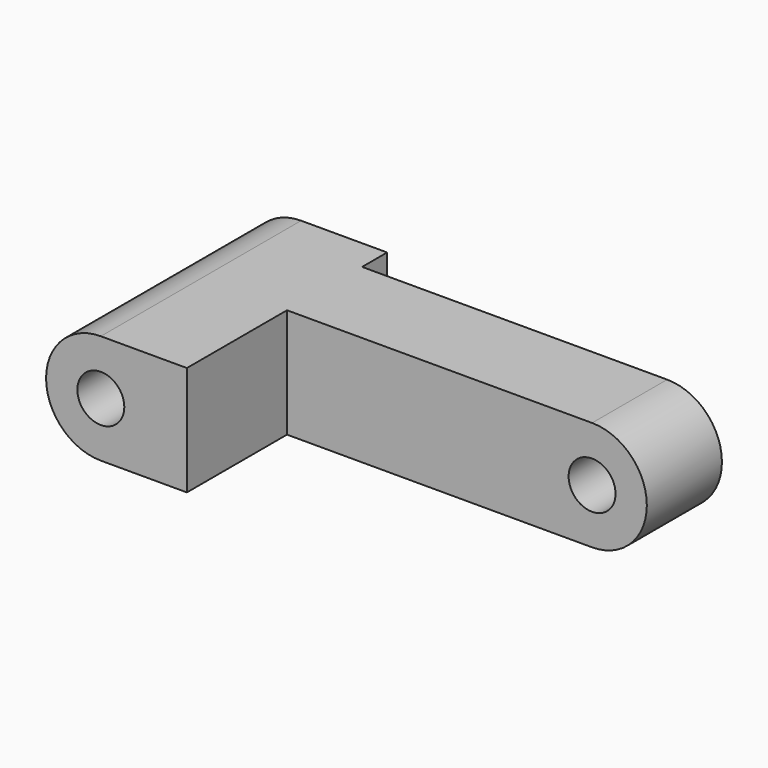
from build123d import *

# Parameters (mm, degrees)
F0_R     = 1.5
F1_DEPTH = 8
F2_W     = 19.5
F2_H     = 8
F2_H_2   = 2
F3_DEPTH = 7.001


with BuildPart() as f1:
    # F0 (on Front) → F1 (new body, symmetric)
    with BuildSketch(Plane.XZ):
        with BuildLine():
            Line((12.5, 3.5), (-12.5, 3.5))
            ThreePointArc((-12.5, 3.5), (-16, 0), (-12.5, -3.5))
            Line((-12.5, -3.5), (12.5, -3.5))
            ThreePointArc((12.5, -3.5), (16, 0), (12.5, 3.5))
        make_face()
        with Locations((-12.5, 0)):
            Circle(F0_R, mode=Mode.SUBTRACT)
        with Locations((12.5, 0)):
            Circle(F0_R, mode=Mode.SUBTRACT)
    extrude(amount=F1_DEPTH, both=True)

    # F2 (on face) → F3 (cut, through all)
    with BuildSketch(Plane.XY.offset(3.5)):
        Polygon((12.5, 8), (12.5, 6), (38.743676, 6), (38.743676, 26.368193), (-7, 26.368193), (-7, 8), align=None)
        Polygon((43.310512, 0), (12.5, 0), (12.5, -8), (-7, -8), (-7, -22.254754), (43.310512, -22.254754), align=None)
        with Locations((2.75, -4)):
            Rectangle(F2_W, F2_H)
        with Locations((2.75, 7)):
            Rectangle(F2_W, F2_H_2)
    extrude(amount=-F3_DEPTH, mode=Mode.SUBTRACT)


solid = f1.part
